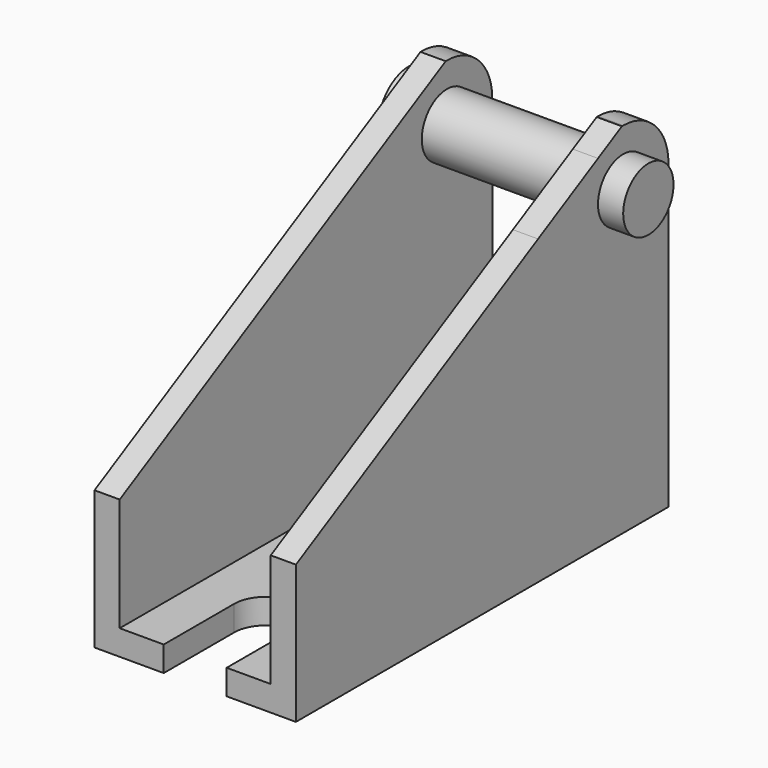
from build123d import *

# Parameters (mm, degrees)
F0_R     = 3.96875
F1_DEPTH = 3.175
F2_R     = 4.9721039952
F2_W     = 58.7375
F2_H     = 14.2875
F2_H_2   = 3.175
F2_R_2   = 3.96875
F3_DEPTH = 3.175
F4_W     = 3.175
F4_H     = 20.6375
F4_W_2   = 3.96875
F4_H_2   = 14.2875
F4_H_3   = 3.175
F4_W_3   = 47.625
F5_DEPTH = 3.175
F6_DEPTH = 28.575
F7_DEPTH = 1.5875


with BuildPart() as f1:
    # F0 (on Top) → F1 (new body)
    with BuildSketch(Plane.XY):
        with BuildLine():
            Line((12.7, 29.36875), (-12.7, 29.36875))
            Line((-12.7, 29.36875), (-12.7, -29.36875))
            Line((-12.7, -29.36875), (-3.96875, -29.36875))
            Line((-3.96875, -29.36875), (-3.96875, -18.25625))
            ThreePointArc((-3.96875, -18.25625), (0, -14.2875), (3.96875, -18.25625))
            Line((3.96875, -18.25625), (3.96875, -29.36875))
            Line((3.96875, -29.36875), (12.7, -29.36875))
            Line((12.7, -29.36875), (12.7, 29.36875))
        make_face()
        with Locations((0, 16.66875)):
            Circle(F0_R, mode=Mode.SUBTRACT)
    extrude(amount=F1_DEPTH)

    # F2 (on face) → F3 (join)
    with BuildSketch(Plane(origin=(-12.7, 0, 0), x_dir=(0, -1, 0), z_dir=(-1, 0, 0))):
        with BuildLine():
            Line((-29.36875, 38.1), (-29.36875, 17.4625))
            Line((-29.36875, 17.4625), (29.36875, 17.4625))
            Line((29.36875, 17.4625), (-22.0211824404, 45.2408418597))
            ThreePointArc((-22.0211824404, 45.2408418597), (-27.2038122264, 43.2229476746), (-29.36875, 38.1))
        make_face()
        with Locations((-22.225, 38.1)):
            Circle(F2_R, mode=Mode.SUBTRACT)
        with Locations((0, 10.31875)):
            Rectangle(F2_W, F2_H)
        with Locations((0, 1.5875)):
            Rectangle(F2_W, F2_H_2)
        with Locations((-22.225, 38.1)):
            Circle(F2_R)
        with Locations((-22.225, 38.1)):
            Circle(F2_R_2, mode=Mode.SUBTRACT)
    extrude(amount=-F3_DEPTH)

    # F4 (on face) → F5 (join)
    with BuildSketch(Plane.YZ.offset(12.7)):
        Polygon((-29.36875, 17.4625), (18.25625, 17.4625), (18.25625, 38.1), (8.810625, 38.1), align=None)
        Polygon((8.810625, 38.1), (18.25625, 38.1), (18.25625, 43.2057432432), align=None)
        with BuildLine():
            ThreePointArc((18.25625, 38.1), (19.4186699622, 40.9063300378), (22.225, 42.06875))
            Line((22.225, 42.06875), (22.225, 45.24375))
            ThreePointArc((22.225, 45.24375), (22.1230808471, 45.2430229279), (22.0211824404, 45.2408418597))
            Line((22.0211824404, 45.2408418597), (18.25625, 43.2057432432))
            Line((18.25625, 43.2057432432), (18.25625, 38.1))
        make_face()
        with BuildLine():
            ThreePointArc((22.225, 42.06875), (25.0313300378, 40.9063300378), (26.19375, 38.1))
            Line((26.19375, 38.1), (26.19375, 44.0398811015))
            ThreePointArc((26.19375, 44.0398811015), (24.2986608261, 44.9361608261), (22.225, 45.24375))
            Line((22.225, 45.24375), (22.225, 42.06875))
        make_face()
        with BuildLine():
            Line((26.19375, 38.1), (29.36875, 38.1))
            ThreePointArc((29.36875, 38.1), (28.5251953095, 41.4675960454), (26.19375, 44.0398811015))
            Line((26.19375, 44.0398811015), (26.19375, 38.1))
        make_face()
        with Locations((27.78125, 27.78125)):
            Rectangle(F4_W, F4_H)
        with BuildLine():
            Line((22.225, 17.4625), (26.19375, 17.4625))
            Line((26.19375, 17.4625), (26.19375, 38.1))
            ThreePointArc((26.19375, 38.1), (25.0313300378, 35.2936699622), (22.225, 34.13125))
            Line((22.225, 34.13125), (22.225, 17.4625))
        make_face()
        with BuildLine():
            Line((18.25625, 17.4625), (22.225, 17.4625))
            Line((22.225, 17.4625), (22.225, 34.13125))
            ThreePointArc((22.225, 34.13125), (19.4186699622, 35.2936699622), (18.25625, 38.1))
            Line((18.25625, 38.1), (18.25625, 17.4625))
        make_face()
        with Locations((20.240625, 10.31875)):
            Rectangle(F4_W_2, F4_H_2)
        with Locations((24.209375, 10.31875)):
            Rectangle(F4_W_2, F4_H_2)
        with Locations((27.78125, 10.31875)):
            Rectangle(F4_W, F4_H_2)
        with Locations((27.78125, 1.5875)):
            Rectangle(F4_W, F4_H_3)
        with Locations((24.209375, 1.5875)):
            Rectangle(F4_W_2, F4_H_3)
        with Locations((20.240625, 1.5875)):
            Rectangle(F4_W_2, F4_H_3)
        with Locations((-5.55625, 1.5875)):
            Rectangle(F4_W_3, F4_H_3)
        with Locations((-5.55625, 10.31875)):
            Rectangle(F4_W_3, F4_H_2)
    extrude(amount=-F5_DEPTH)

    # F2 (on face) → F6 (join)
    with BuildSketch(Plane(origin=(-12.7, 0, 0), x_dir=(0, -1, 0), z_dir=(-1, 0, 0))):
        with Locations((-22.225, 38.1)):
            Circle(F2_R_2)
    extrude(amount=-F6_DEPTH)

    # F2 (on face) → F7 (join)
    with BuildSketch(Plane(origin=(-12.7, 0, 0), x_dir=(0, -1, 0), z_dir=(-1, 0, 0))):
        with Locations((-22.225, 38.1)):
            Circle(F2_R)
        with Locations((-22.225, 38.1)):
            Circle(F2_R_2, mode=Mode.SUBTRACT)
        with Locations((-22.225, 38.1)):
            Circle(F2_R_2)
    extrude(amount=F7_DEPTH)


solid = f1.part
